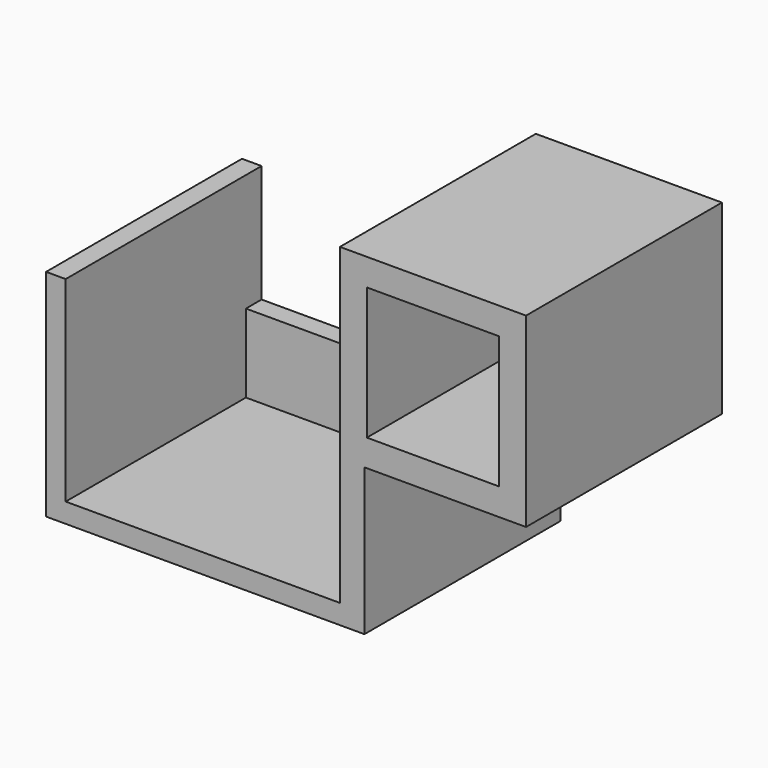
from build123d import *

# Parameters (mm, degrees)
F0_W     = 19
F0_H     = 19
F0_W_2   = 13.5
F0_H_2   = 13.5
F1_DEPTH = 12.5
F2_W     = 25
F2_H     = 34
F3_DEPTH = 2.5
F4_W     = 25
F4_H     = 2
F5_DEPTH = 30
F6_W     = 2
F6_H     = 25
F7_DEPTH = 20
F8_W     = 32.5
F8_H     = 10
F9_DEPTH = 2


with BuildPart() as f1:
    # F0 (on Front) → F1 (new body, symmetric)
    with BuildSketch(Plane.XZ):
        Rectangle(F0_W, F0_H)
        Rectangle(F0_W_2, F0_H_2, mode=Mode.SUBTRACT)
    extrude(amount=F1_DEPTH, both=True)

    # F2 (on face) → F3 (join)
    with BuildSketch(Plane(origin=(-9.5, 0, 0), x_dir=(0, -1, 0), z_dir=(-1, 0, 0))):
        with Locations((0, -7.5)):
            Rectangle(F2_W, F2_H)
    extrude(amount=-F3_DEPTH)

    # F4 (on face) → F5 (join)
    with BuildSketch(Plane(origin=(-9.5, 0, 0), x_dir=(0, -1, 0), z_dir=(-1, 0, 0))):
        with Locations((0, -23.5)):
            Rectangle(F4_W, F4_H)
    extrude(amount=F5_DEPTH)

    # F6 (on face) → F7 (join)
    with BuildSketch(Plane.XY.offset(-22.5)):
        with Locations((-38.5, 0)):
            Rectangle(F6_W, F6_H)
    extrude(amount=F7_DEPTH)

    # F8 (on face) → F9 (join)
    with BuildSketch(Plane(origin=(0, 12.5, 0), x_dir=(-1, 0, 0), z_dir=(0, 1, 0))):
        with Locations((23.25, -19.5)):
            Rectangle(F8_W, F8_H)
    extrude(amount=-F9_DEPTH)


solid = f1.part
